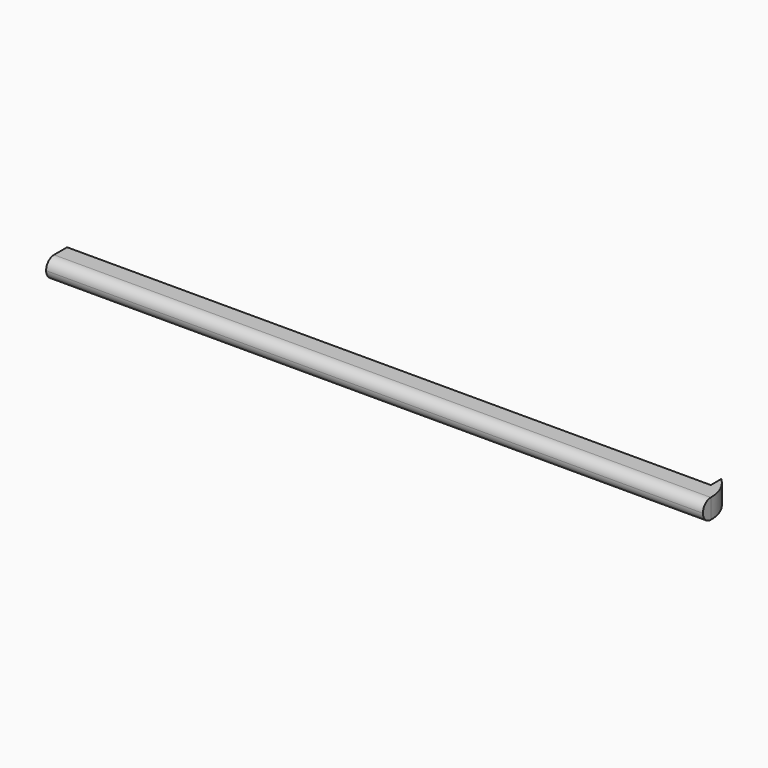
from build123d import *

# Parameters (mm, degrees)
F1_DEPTH = 0.75
F3_DEPTH = 50.001


with BuildPart() as f1:
    # F0 (on Top) → F1 (new body, symmetric)
    with BuildSketch(Plane.XY):
        with BuildLine():
            Line((-25, -1), (25, -1))
            Line((25, -1), (25, -0.2426406871))
            ThreePointArc((25, -0.2426406871), (24.9318609696, 0.3931196883), (24.7305391634, 1))
            Line((24.7305391634, 1), (24, 1))
            Line((24, 1), (-25, 1))
            Line((-25, 1), (-25, -1))
        make_face()
        with BuildLine():
            Line((24, 1), (24.7305391634, 1))
            ThreePointArc((24.7305391634, 1), (24.4653913794, 1.4666999304), (24.1213203436, 1.8786796564))
            Line((24.1213203436, 1.8786796564), (24, 2))
            Line((24, 2), (24, 1.95))
            Line((24, 1.95), (24, 1))
        make_face()
        with BuildLine():
            ThreePointArc((23.95, 2), (23.9853553391, 1.9853553391), (24, 1.95))
            Line((24, 1.95), (24, 2))
            Line((24, 2), (23.95, 2))
        make_face()
    extrude(amount=F1_DEPTH, both=True)

    # F2 (on face) → F3 (cut, through all)
    with BuildSketch(Plane(origin=(-25, 0, 0), x_dir=(0, -1, 0), z_dir=(-1, 0, 0))):
        with BuildLine():
            Line((1, 0.75), (0.25, 0.75))
            ThreePointArc((0.25, 0.75), (0.7803300859, 0.5303300859), (1, 0))
            Line((1, 0), (1, 0.75))
        make_face()
        with BuildLine():
            ThreePointArc((1, 0), (0.7803300859, -0.5303300859), (0.25, -0.75))
            Line((0.25, -0.75), (1, -0.75))
            Line((1, -0.75), (1, 0))
        make_face()
    extrude(amount=-F3_DEPTH, mode=Mode.SUBTRACT)


solid = f1.part
